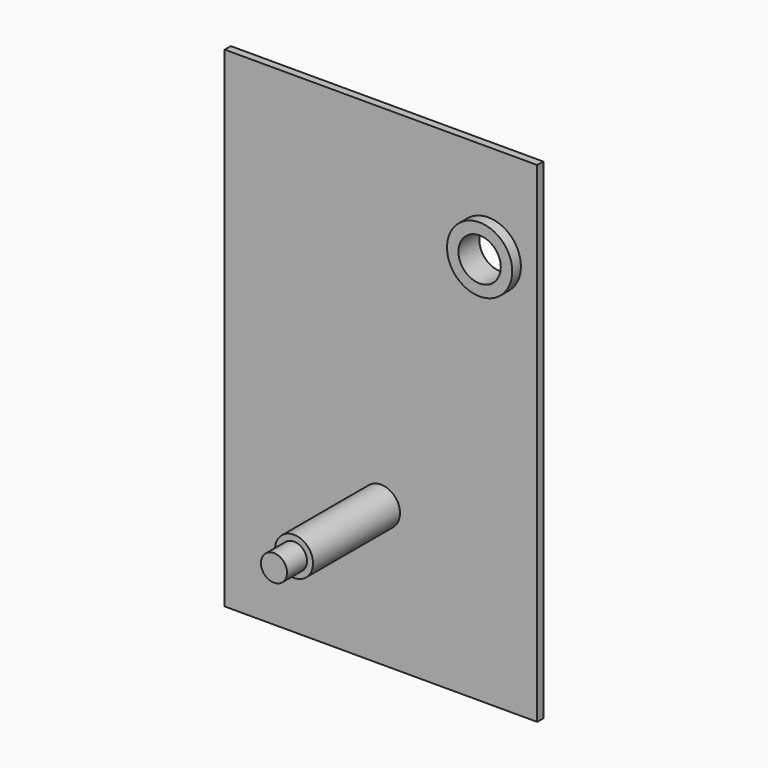
from build123d import *

# Parameters (mm, degrees)
F0_W     = 287.5
F0_H     = 451
F1_DEPTH = 7
F2_R     = 30
F2_R_2   = 19.5
F3_DEPTH = 10
F4_DEPTH = 25
F5_DEPTH = 24
F2_R_3   = 17.5
F6_DEPTH = 100
F7_R     = 12
F8_DEPTH = 23


with BuildPart() as f1:
    # F0 (on Front) → F1 (new body)
    with BuildSketch(Plane.XZ):
        Rectangle(F0_W, F0_H)
    extrude(amount=F1_DEPTH)

    # F2 (on face) → F3 (join)
    with BuildSketch(Plane.XZ.offset(7)):
        with Locations((98.75, 138.5)):
            Circle(F2_R)
        with Locations((98.75, 138.5)):
            Circle(F2_R_2, mode=Mode.SUBTRACT)
    extrude(amount=F3_DEPTH)

    # F4 (cut): a face of the model
    f4_faces = [f1.faces().sort_by_distance(p)[0] for p in [
        (98.75, -7, 138.5),
    ]]
    extrude(f4_faces, amount=-F4_DEPTH, mode=Mode.SUBTRACT)

    # F5 (add): a face of the model
    f5_faces = [f1.faces().sort_by_distance(p)[0] for p in [
        (69.5985281374, -17, 138.5),
    ]]
    extrude(f5_faces, amount=-F5_DEPTH)

    # F2 (on face) → F6 (join)
    with BuildSketch(Plane.XZ.offset(7)):
        with Locations((0, -97.5)):
            Circle(F2_R_3)
    extrude(amount=F6_DEPTH)

    # F7 (on face) → F8 (join)
    with BuildSketch(Plane.XZ.offset(107)):
        with Locations((0, -97.5)):
            Circle(F7_R)
    extrude(amount=F8_DEPTH)


solid = f1.part
